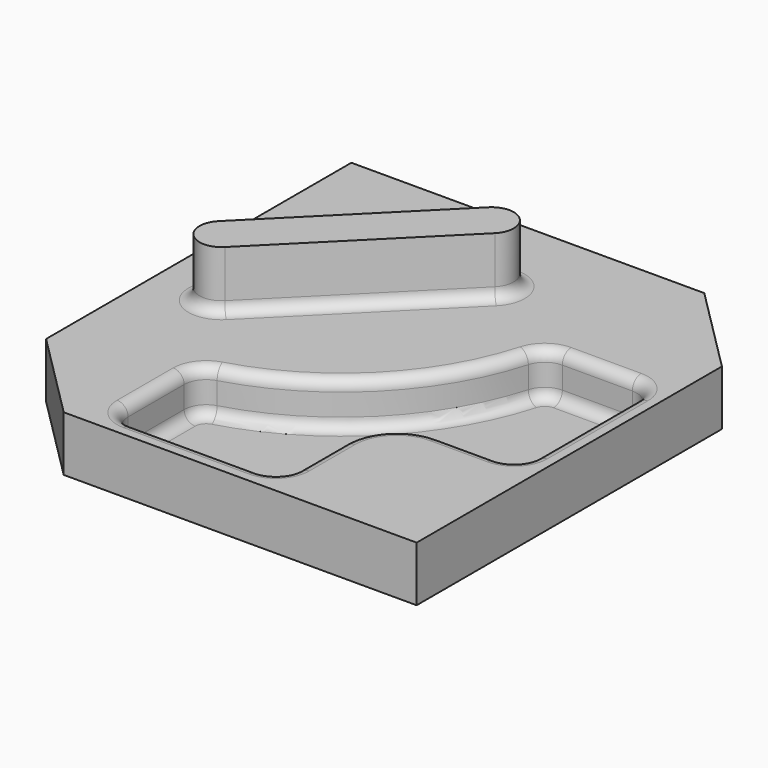
from build123d import *

# Parameters (mm, degrees)
F1_DEPTH = 25
F2_DEPTH = 51.4
F3_R     = 5
F4_DEPTH = 26
F5_DEPTH = 21
F6_R     = 5


with BuildPart() as f1:
    # F0 (on Top) → F1 (new body)
    with BuildSketch(Plane.XY):
        Polygon((-109.0911263708, -50.1850256925), (-69.0911263708, -90.1850256925), (90.9088736292, -90.1850256925), (90.9088736292, 79.8149743075), (90.9088736292, 82.8149743075), (50.9088736292, 122.8149743075), (-109.0911263708, 122.8149743075), align=None)
        with BuildLine():
            ThreePointArc((-55.0911263708, -39.4331600105), (-53.0729169233, -33.4089571938), (-47.8329224556, -29.8163749848))
            ThreePointArc((-47.8329224556, -29.8163749848), (1.5201909917, -0.7957829849), (30.5414983829, 48.5569097914))
            ThreePointArc((30.5414983829, 48.5569097914), (34.1340986973, 53.7968085215), (40.158243664, 55.8149743075))
            Line((40.158243664, 55.8149743075), (71.9088736292, 55.8149743075))
            ThreePointArc((71.9088736292, 55.8149743075), (78.979941441, 52.8860421194), (81.9088736292, 45.8149743075))
            Line((81.9088736292, 45.8149743075), (81.9088736292, -11.1850256925))
            ThreePointArc((81.9088736292, -11.1850256925), (78.979941441, -18.2560935043), (71.9088736292, -21.1850256925))
            Line((71.9088736292, -21.1850256925), (45.9088736292, -21.1850256925))
            ThreePointArc((45.9088736292, -21.1850256925), (28.9383108807, -28.214462944), (21.9088736292, -45.1850256925))
            Line((21.9088736292, -45.1850256925), (21.9088736292, -71.1850256925))
            ThreePointArc((21.9088736292, -71.1850256925), (18.979941441, -78.2560935043), (11.9088736292, -81.1850256925))
            Line((11.9088736292, -81.1850256925), (-45.0911263708, -81.1850256925))
            ThreePointArc((-45.0911263708, -81.1850256925), (-52.1621941827, -78.2560935043), (-55.0911263708, -71.1850256925))
            Line((-55.0911263708, -71.1850256925), (-55.0911263708, -39.4331600105))
        make_face(mode=Mode.SUBTRACT)
        with BuildLine():
            ThreePointArc((-25.2332619945, 93.9571099313), (3.3880299167, 93.6118592169), (2.3524786931, 65.0072235369))
            Line((2.3524786931, 65.0072235369), (-64.9455336496, -2.3237033734))
            ThreePointArc((-64.9455336496, -2.3237033734), (-93.2298044744, -2.3271608935), (-93.2332619945, 25.9571099313))
            Line((-93.2332619945, 25.9571099313), (-25.2332619945, 93.9571099313))
        make_face(mode=Mode.SUBTRACT)
        with BuildLine():
            ThreePointArc((30.5414983829, 48.5569097914), (1.5201909917, -0.7957829849), (-47.8329224556, -29.8163749848))
            ThreePointArc((-47.8329224556, -29.8163749848), (-53.0729169233, -33.4089571938), (-55.0911263708, -39.4331600105))
            Line((-55.0911263708, -39.4331600105), (-55.0911263708, -71.1850256925))
            ThreePointArc((-55.0911263708, -71.1850256925), (-52.1621941827, -78.2560935043), (-45.0911263708, -81.1850256925))
            Line((-45.0911263708, -81.1850256925), (11.9088736292, -81.1850256925))
            ThreePointArc((11.9088736292, -81.1850256925), (18.979941441, -78.2560935043), (21.9088736292, -71.1850256925))
            Line((21.9088736292, -71.1850256925), (21.9088736292, -45.1850256925))
            ThreePointArc((21.9088736292, -45.1850256925), (28.9383108807, -28.214462944), (45.9088736292, -21.1850256925))
            Line((45.9088736292, -21.1850256925), (71.9088736292, -21.1850256925))
            ThreePointArc((71.9088736292, -21.1850256925), (78.979941441, -18.2560935043), (81.9088736292, -11.1850256925))
            Line((81.9088736292, -11.1850256925), (81.9088736292, 45.8149743075))
            ThreePointArc((81.9088736292, 45.8149743075), (78.979941441, 52.8860421194), (71.9088736292, 55.8149743075))
            Line((71.9088736292, 55.8149743075), (40.158243664, 55.8149743075))
            ThreePointArc((40.158243664, 55.8149743075), (34.1340986973, 53.7968085215), (30.5414983829, 48.5569097914))
        make_face()
        with BuildLine():
            Line((-64.9455336496, -2.3237033734), (2.3524786931, 65.0072235369))
            ThreePointArc((2.3524786931, 65.0072235369), (3.3880299167, 93.6118592169), (-25.2332619945, 93.9571099313))
            Line((-25.2332619945, 93.9571099313), (-93.2332619945, 25.9571099313))
            ThreePointArc((-93.2332619945, 25.9571099313), (-93.2298044744, -2.3271608935), (-64.9455336496, -2.3237033734))
        make_face()
        with BuildLine():
            ThreePointArc((-72.020058559, 4.7439064957), (-86.1621941827, 4.7439064957), (-86.1621941827, 18.8860421194))
            Line((-86.1621941827, 18.8860421194), (-18.1621941827, 86.8860421194))
            ThreePointArc((-18.1621941827, 86.8860421194), (-4.020058559, 86.8860421194), (-4.020058559, 72.7439064957))
            Line((-4.020058559, 72.7439064957), (-72.020058559, 4.7439064957))
        make_face(mode=Mode.SUBTRACT)
        with BuildLine():
            Line((-18.1621941827, 86.8860421194), (-86.1621941827, 18.8860421194))
            ThreePointArc((-86.1621941827, 18.8860421194), (-86.1621941827, 4.7439064957), (-72.020058559, 4.7439064957))
            Line((-72.020058559, 4.7439064957), (-4.020058559, 72.7439064957))
            ThreePointArc((-4.020058559, 72.7439064957), (-4.020058559, 86.8860421194), (-18.1621941827, 86.8860421194))
        make_face()
    extrude(amount=F1_DEPTH)

    # F0 (on Top) → F2 (join)
    with BuildSketch(Plane.XY):
        with BuildLine():
            Line((-18.1621941827, 86.8860421194), (-86.1621941827, 18.8860421194))
            ThreePointArc((-86.1621941827, 18.8860421194), (-86.1621941827, 4.7439064957), (-72.020058559, 4.7439064957))
            Line((-72.020058559, 4.7439064957), (-4.020058559, 72.7439064957))
            ThreePointArc((-4.020058559, 72.7439064957), (-4.020058559, 86.8860421194), (-18.1621941827, 86.8860421194))
        make_face()
    extrude(amount=F2_DEPTH)

    # F3
    f3_edges = [f1.edges().sort_by_distance(p)[0] for p in [
        (-38.020059, 38.743906, 25),
    ]]
    fillet(f3_edges, radius=F3_R)

    # F0 (on Top) → F4 (join)
    with BuildSketch(Plane.XY):
        with BuildLine():
            ThreePointArc((30.5414983829, 48.5569097914), (1.5201909917, -0.7957829849), (-47.8329224556, -29.8163749848))
            ThreePointArc((-47.8329224556, -29.8163749848), (-53.0729169233, -33.4089571938), (-55.0911263708, -39.4331600105))
            Line((-55.0911263708, -39.4331600105), (-55.0911263708, -71.1850256925))
            ThreePointArc((-55.0911263708, -71.1850256925), (-52.1621941827, -78.2560935043), (-45.0911263708, -81.1850256925))
            Line((-45.0911263708, -81.1850256925), (11.9088736292, -81.1850256925))
            ThreePointArc((11.9088736292, -81.1850256925), (18.979941441, -78.2560935043), (21.9088736292, -71.1850256925))
            Line((21.9088736292, -71.1850256925), (21.9088736292, -45.1850256925))
            ThreePointArc((21.9088736292, -45.1850256925), (28.9383108807, -28.214462944), (45.9088736292, -21.1850256925))
            Line((45.9088736292, -21.1850256925), (71.9088736292, -21.1850256925))
            ThreePointArc((71.9088736292, -21.1850256925), (78.979941441, -18.2560935043), (81.9088736292, -11.1850256925))
            Line((81.9088736292, -11.1850256925), (81.9088736292, 45.8149743075))
            ThreePointArc((81.9088736292, 45.8149743075), (78.979941441, 52.8860421194), (71.9088736292, 55.8149743075))
            Line((71.9088736292, 55.8149743075), (40.158243664, 55.8149743075))
            ThreePointArc((40.158243664, 55.8149743075), (34.1340986973, 53.7968085215), (30.5414983829, 48.5569097914))
        make_face()
    extrude(amount=F4_DEPTH)

    # F5 (cut): a face of the model
    f5_faces = [f1.faces().sort_by_distance(p)[0] for p in [
        (17.7294443372, -17.0058627659, 26),
    ]]
    extrude(f5_faces, amount=-F5_DEPTH, mode=Mode.SUBTRACT)

    # F6
    f6_edges = [f1.edges().sort_by_distance(p)[0] for p in [
        (1.520191, -0.795783, 25),
        (1.520191, -0.795783, 5),
    ]]
    fillet(f6_edges, radius=F6_R)


solid = f1.part
